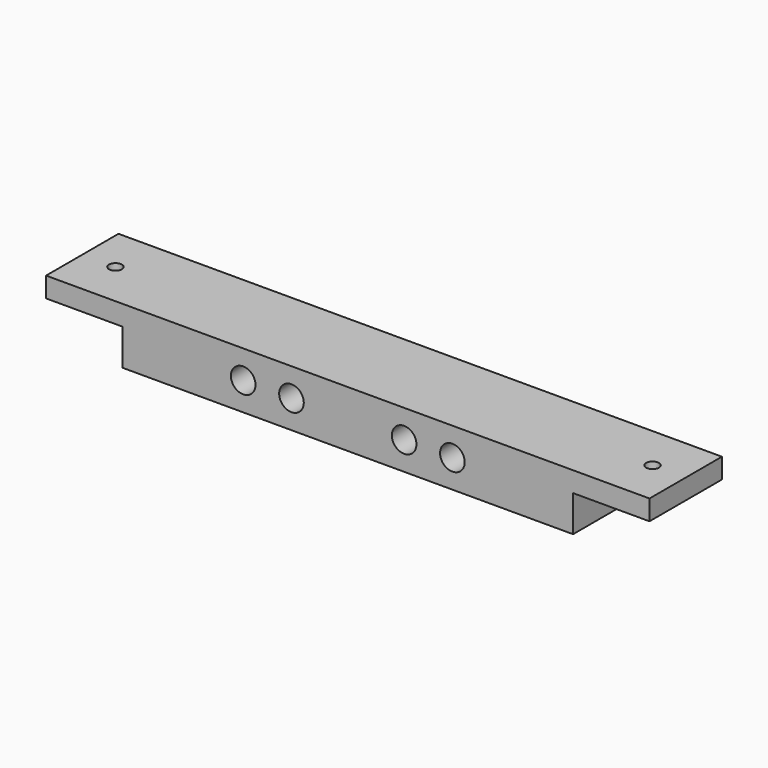
from build123d import *

# Parameters (mm, degrees)
SKETCH016_R     = 3.0625
PAD003_DEPTH    = 22.5
SKETCH020_R     = 3.875
POCKET012_DEPTH = 10
SKETCH025_W     = 2.5
SKETCH025_H     = 12.25
POCKET013_DEPTH = 15
SKETCH026_W     = 2.5
SKETCH026_H     = 9.8
POCKET014_DEPTH = 9.25
SKETCH027_W     = 2.5
SKETCH027_H     = 12.25
POCKET015_DEPTH = 15
SKETCH028_W     = 2.5
SKETCH028_H     = 9.8
POCKET016_DEPTH = 9.25
SKETCH029_R     = 1.6
POCKET017_DEPTH = 5
POCKET018_DEPTH = 2


with BuildPart() as part:
    # Sketch016 → Pad003 (new body)
    with BuildSketch(Plane.XZ):
        Polygon((-56, -7), (56, -7), (56, 2), (75, 2), (75, 7), (-75, 7), (-75, 2), (-56, 2), align=None)
        with Locations((-14, 0)):
            Circle(SKETCH016_R, mode=Mode.SUBTRACT)
        with Locations((14, 0)):
            Circle(SKETCH016_R, mode=Mode.SUBTRACT)
        with Locations((-26, 0)):
            Circle(SKETCH016_R, mode=Mode.SUBTRACT)
        with Locations((26, 0)):
            Circle(SKETCH016_R, mode=Mode.SUBTRACT)
    extrude(amount=PAD003_DEPTH)

    # Sketch020 (on Face4 of Pad003) → Pocket012 (cut)
    with BuildSketch(Plane(origin=(0, 0, -7), x_dir=(1, 0, 0), z_dir=(0, 0, -1))):
        with Locations((-44.75, 11.25)):
            Circle(SKETCH020_R)
        with Locations((44.75, 11.3)):
            Circle(SKETCH020_R)
    extrude(amount=-POCKET012_DEPTH, mode=Mode.SUBTRACT)

    # Sketch025 (on Face9 of Pocket012) → Pocket013 (cut)
    with BuildSketch(Plane(origin=(56, 0, 0), x_dir=(0, 0, 1), z_dir=(1, 0, 0))):
        with Locations((-0.75, 6.125)):
            Rectangle(SKETCH025_W, SKETCH025_H)
    extrude(amount=-POCKET013_DEPTH, mode=Mode.SUBTRACT)

    # Sketch026 (on Face11 of Pocket013) → Pocket014 (cut)
    with BuildSketch(Plane(origin=(41, 0, 0), x_dir=(0, 0, 1), z_dir=(1, 0, 0))):
        with Locations((-0.75, 7.35)):
            Rectangle(SKETCH026_W, SKETCH026_H)
    extrude(amount=-POCKET014_DEPTH, mode=Mode.SUBTRACT)

    # Sketch027 (on Face7 of Pocket012) → Pocket015 (cut)
    with BuildSketch(Plane(origin=(-56, 0, 0), x_dir=(0, 0, -1), z_dir=(-1, 0, 0))):
        with Locations((0.75, 6.125)):
            Rectangle(SKETCH027_W, SKETCH027_H)
    extrude(amount=-POCKET015_DEPTH, mode=Mode.SUBTRACT)

    # Sketch028 (on Face9 of Pocket015) → Pocket016 (cut)
    with BuildSketch(Plane(origin=(-41, 0, 0), x_dir=(0, 0, -1), z_dir=(-1, 0, 0))):
        with Locations((0.75, 7.35)):
            Rectangle(SKETCH028_W, SKETCH028_H)
    extrude(amount=-POCKET016_DEPTH, mode=Mode.SUBTRACT)

    # Sketch029 (on Face2 of Pocket016) → Pocket017 (cut)
    with BuildSketch(Plane(origin=(0, 0, 7), x_dir=(-1, 0, 0), z_dir=(0, 0, 1))):
        with Locations((-66.75, 11.25)):
            Circle(SKETCH029_R)
        with Locations((66.75, 11.25)):
            Circle(SKETCH029_R)
    extrude(amount=-POCKET017_DEPTH, mode=Mode.SUBTRACT)

    # Sketch030 (on Face18 of Pocket017) → Pocket018 (cut)
    with BuildSketch(Plane(origin=(0, 0, 2), x_dir=(1, 0, 0), z_dir=(0, 0, -1))):
        Polygon((-65.125, 8.4354174377), (-63.5, 11.25), (-65.125, 14.0645825623), (-68.375, 14.0645825623), (-70, 11.25), (-68.375, 8.4354174377), align=None)
        Polygon((68.375, 8.4354174377), (70, 11.25), (68.375, 14.0645825623), (65.125, 14.0645825623), (63.5, 11.25), (65.125, 8.4354174377), align=None)
    extrude(amount=-POCKET018_DEPTH, mode=Mode.SUBTRACT)


solid = part.part
